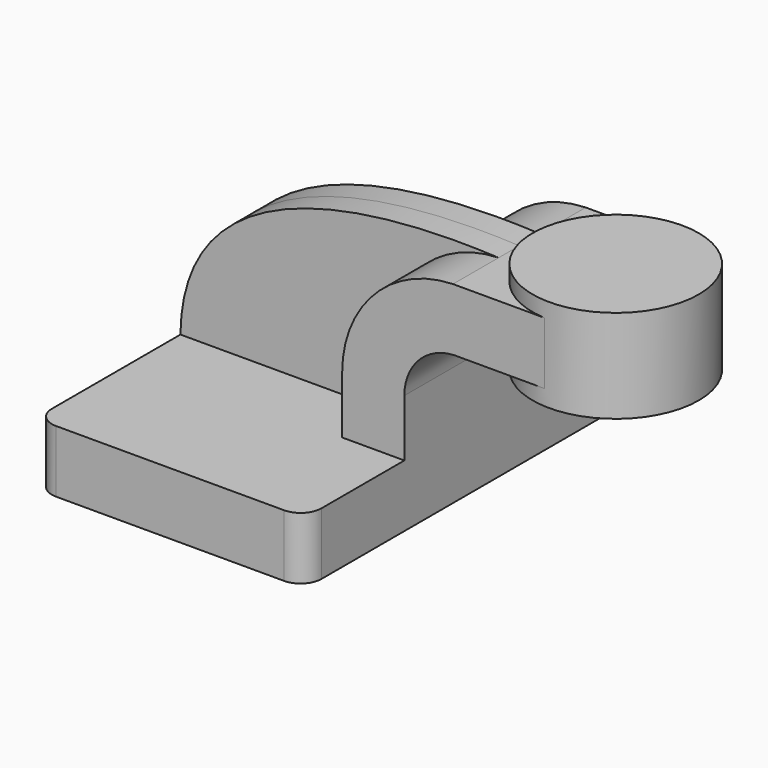
from build123d import *

# Parameters (mm, degrees)
F1_DEPTH = 63.5
F2_DEPTH = 25.4
F3_DEPTH = 7.9375
F0_W     = 25.3550079346
F0_H     = 19.05
F5_DEPTH = 25.4
F6_R     = 6.35


with BuildPart() as f1:
    # F0 (on Front) → F1 (new body, symmetric)
    with BuildSketch(Plane.XZ):
        Polygon((-41.275, -9.525), (41.275, -9.525), (41.275, 9.525), (22.225, 9.525), (-41.275, 9.525), align=None)
    extrude(amount=F1_DEPTH, both=True)

    # F0 (on Front) → F2 (join, symmetric)
    with BuildSketch(Plane.XZ):
        with BuildLine():
            Line((22.225, 9.525), (41.275, 9.525))
            Line((41.275, 9.525), (41.275, 27.0139750475))
            ThreePointArc((41.275, 27.0139750475), (45.6932996526, 38.0030442596), (56.4888131842, 42.8752))
            Line((56.4888131842, 42.8752), (60.325, 42.8752))
            Line((60.325, 42.8752), (60.325, 61.9252))
            Line((60.325, 61.9252), (56.1691853824, 61.9252))
            ThreePointArc((56.1691853824, 61.9252), (32.1099263627, 51.3604396212), (22.225, 27.0139750475))
            Line((22.225, 27.0139750475), (22.225, 9.525))
        make_face()
    extrude(amount=F2_DEPTH, both=True)

    # F0 (on Front) → F3 (join, symmetric)
    with BuildSketch(Plane.XZ):
        with BuildLine():
            add(Edge.make_bspline(
                [(-41.275, 9.525), (-40.7000668347, 58.4918707609), (18.3322690427, 63.7783482671), (56.1691853824, 61.9252)],
                knots=[0, 0, 0, 0, 110.6397316739, 110.6397316739, 110.6397316739, 110.6397316739], degree=3))
            Line((-41.275, 9.525), (22.225, 9.525))
            Line((22.225, 9.525), (22.225, 27.0139750475))
            ThreePointArc((22.225, 27.0139750475), (32.1099263627, 51.3604396212), (56.1691853824, 61.9252))
        make_face()
    extrude(amount=F3_DEPTH, both=True)

    # F0 (on Front) → F4 (revolve)
    with BuildSketch(Plane.XZ):
        Polygon((85.6800079346, 66.675), (85.6800079346, 61.9252), (85.7112655525, 61.9252), (85.7112655525, 42.8752), (85.6800079346, 42.8752), (85.6800079346, 38.1), (111.125, 38.1), (111.125, 66.675), align=None)
    revolve(axis=Axis((85.6800079346, 0, 52.3875), (0, 0, 1)))

    # F0 (on Front) → F5 (join, symmetric)
    with BuildSketch(Plane.XZ):
        with Locations((73.0025039673, 52.4002)):
            Rectangle(F0_W, F0_H)
    extrude(amount=F5_DEPTH, both=True)

    # F6
    f6_edges = [f1.edges().sort_by_distance(p)[0] for p in [
        (41.275, -63.5, 0),
        (-41.275, -63.5, 0),
        (41.275, 63.5, 0),
        (-41.275, 63.5, 0),
    ]]
    fillet(f6_edges, radius=F6_R)


solid = f1.part
